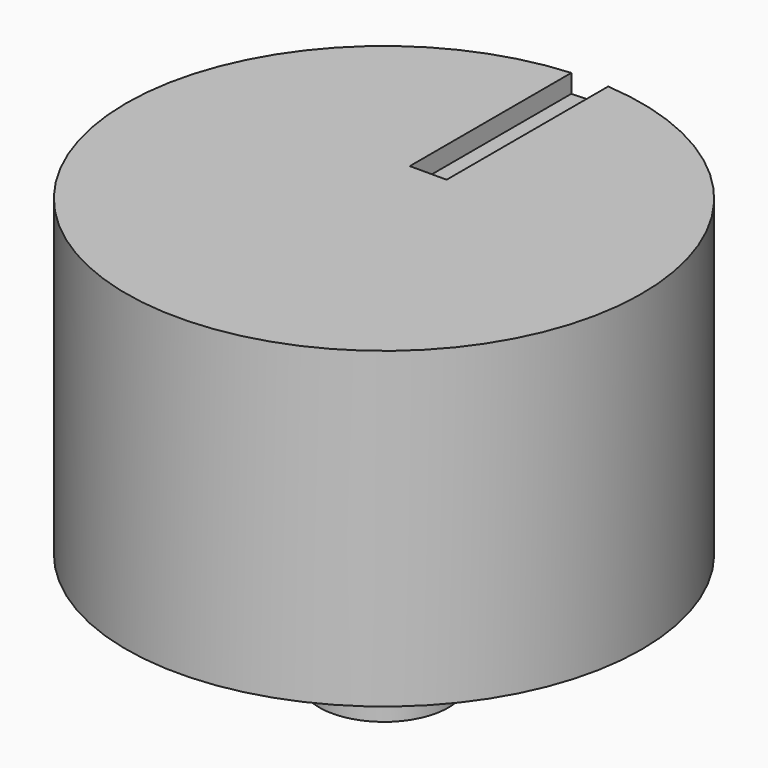
from build123d import *

# Parameters (mm, degrees)
F3_DEPTH = 0.5


with BuildPart() as f1:
    # F0 (on Front) → F1 (revolve)
    with BuildSketch(Plane.XZ):
        Polygon((-1.75, -1), (0, -1), (0, 10.6), (-7, 10.6), (-7, 2.1), (-2.9, 2.1), (-2.9, 0), (-1.75, 0), align=None)
    revolve(axis=Axis((0, 0, 4.8), (0, 0, -1)))

    # F2 (on face) → F3 (cut)
    with BuildSketch(Plane.XY.offset(10.6)):
        with BuildLine():
            Line((-0.5, 1.5), (0.5, 1.5))
            Line((0.5, 1.5), (0.5, 6.98212))
            ThreePointArc((0.5, 6.98212), (0, 7), (-0.5, 6.98212))
            Line((-0.5, 6.98212), (-0.5, 1.5))
        make_face()
    extrude(amount=-F3_DEPTH, mode=Mode.SUBTRACT)


solid = f1.part
